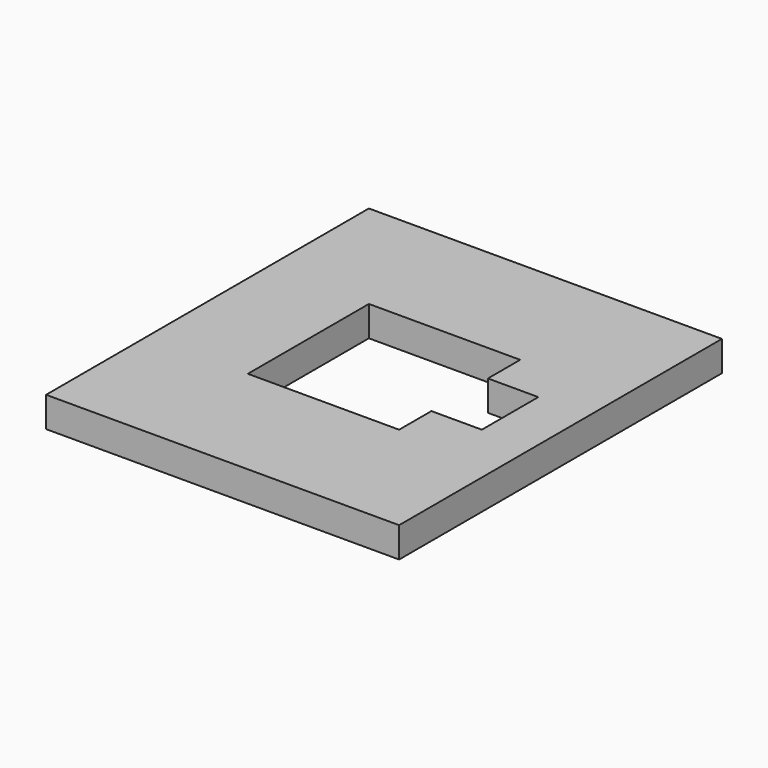
from build123d import *

# Parameters (mm, degrees)
SKETCH_W      = 35
SKETCH_H      = 40
EXTRUDE_DEPTH = 3


with BuildPart() as part:
    # Sketch → Extrude (new body)
    with BuildSketch(Plane.XY):
        Rectangle(SKETCH_W, SKETCH_H)
        Polygon((-7.5, -7.5), (-7.5, 7.5), (7.5, 7.5), (7.5, 3.5), (12.5, 3.5), (12.5, -3.5), (7.5, -3.5), (7.5, -7.5), align=None, mode=Mode.SUBTRACT)
    extrude(amount=EXTRUDE_DEPTH)


solid = part.part
